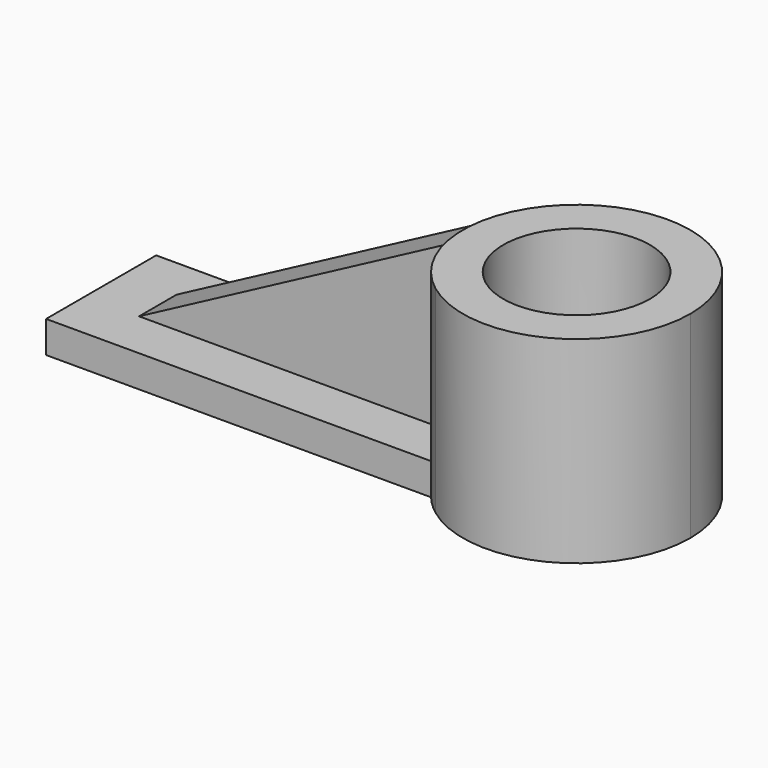
from build123d import *

# Parameters (mm, degrees)
F0_R          = 17.45542
F1_DEPTH      = 46.99
F2_W          = 92.362424
F2_H          = 7.579895
F3_DEPTH      = 17.272
F3_DEPTH_BACK = 15.494
F5_DEPTH      = 5.842
F5_DEPTH_BACK = 5.334


with BuildPart() as f1:
    # F0 (on Top) → F1 (new body)
    with BuildSketch(Plane.XY):
        with BuildLine():
            ThreePointArc((68.056495, 0), (53.064586, 24.225442), (24.695165, 21.616736))
            ThreePointArc((24.695165, 21.616736), (13.918667, 0), (24.695165, -21.616736))
            ThreePointArc((24.695165, -21.616736), (53.064586, -24.225442), (68.056495, 0))
        make_face()
        with Locations((40.987581, 0)):
            Circle(F0_R, mode=Mode.SUBTRACT)
    extrude(amount=F1_DEPTH)

    # F2 (on Front) → F3 (join, two sides)
    with BuildSketch(Plane.XZ) as f3_sk:
        with Locations((-25.326473, 3.789947)):
            Rectangle(F2_W, F2_H)
    extrude(amount=F3_DEPTH)
    extrude(f3_sk.sketch, amount=-F3_DEPTH_BACK)

    # F4 (on Front) → F5 (join, two sides)
    with BuildSketch(Plane.XZ) as f5_sk:
        Polygon((14.428656, 46.435788), (-58.51711, 7.69881), (14.428656, 7.69881), align=None)
    extrude(amount=F5_DEPTH)
    extrude(f5_sk.sketch, amount=-F5_DEPTH_BACK)


solid = f1.part
